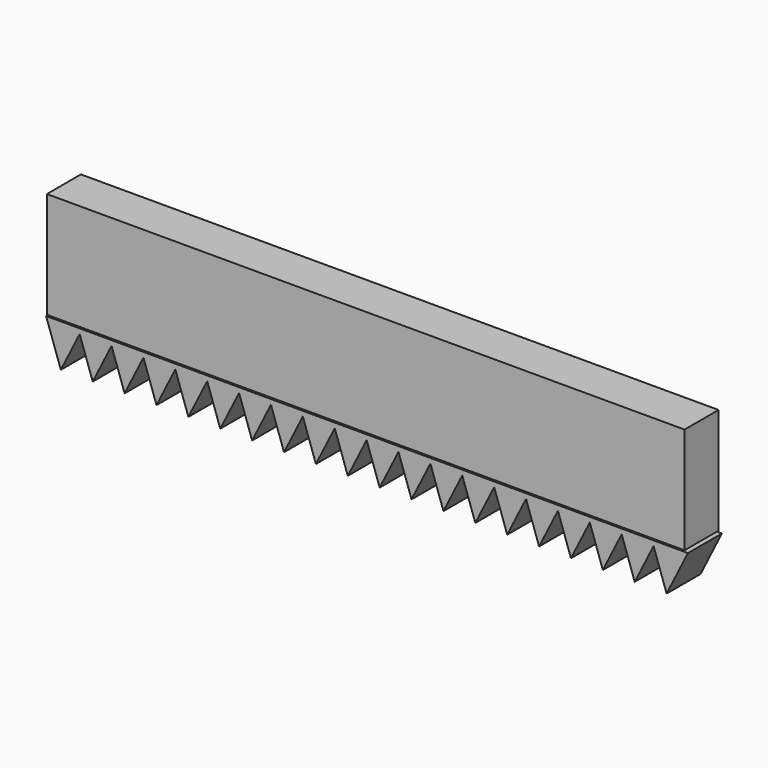
from build123d import *

# Parameters (mm, degrees)
F0_W     = 152.4
F0_H     = 25.4
F2_DEPTH = 10.16


with BuildPart() as f2:
    # F0 (on Front) + F1 (on Front) → F2 (new body)
    with BuildSketch(Plane.XZ):
        Rectangle(F0_W, F0_H)
    with BuildSketch(Plane.XZ):
        Polygon((-68.771168, -13.024884), (-76.391168, -13.024884), (-72.865635, -23.209754), (-68.362906, -14.204308), align=None)
        Polygon((-67.773193, -13.024884), (-68.771168, -13.024884), (-68.362906, -14.204308), align=None)
        Polygon((-61.151168, -13.024884), (-67.773193, -13.024884), (-68.362906, -14.204308), (-65.245635, -23.209754), (-60.742906, -14.204308), align=None)
        Polygon((-60.153193, -13.024884), (-61.151168, -13.024884), (-60.742906, -14.204308), align=None)
        Polygon((-53.531168, -13.024884), (-60.153193, -13.024884), (-60.742906, -14.204308), (-57.625635, -23.209754), (-53.122906, -14.204308), align=None)
        Polygon((-52.533193, -13.024884), (-53.531168, -13.024884), (-53.122906, -14.204308), align=None)
        Polygon((-45.911168, -13.024884), (-52.533193, -13.024884), (-53.122906, -14.204308), (-50.005635, -23.209754), (-45.502906, -14.204308), align=None)
        Polygon((-44.913193, -13.024884), (-45.911168, -13.024884), (-45.502906, -14.204308), align=None)
        Polygon((-38.291168, -13.024884), (-44.913193, -13.024884), (-45.502906, -14.204308), (-42.385635, -23.209754), (-37.882906, -14.204308), align=None)
        Polygon((-37.293193, -13.024884), (-38.291168, -13.024884), (-37.882906, -14.204308), align=None)
        Polygon((-30.671168, -13.024884), (-37.293193, -13.024884), (-37.882906, -14.204308), (-34.765635, -23.209754), (-30.262906, -14.204308), align=None)
        Polygon((-29.673193, -13.024884), (-30.671168, -13.024884), (-30.262906, -14.204308), align=None)
        Polygon((-23.051168, -13.024884), (-29.673193, -13.024884), (-30.262906, -14.204308), (-27.145635, -23.209754), (-22.642906, -14.204308), align=None)
        Polygon((-22.053193, -13.024884), (-23.051168, -13.024884), (-22.642906, -14.204308), align=None)
        Polygon((-15.431168, -13.024884), (-22.053193, -13.024884), (-22.642906, -14.204308), (-19.525635, -23.209754), (-15.022906, -14.204308), align=None)
        Polygon((-14.433193, -13.024884), (-15.431168, -13.024884), (-15.022906, -14.204308), align=None)
        Polygon((-7.811168, -13.024884), (-14.433193, -13.024884), (-15.022906, -14.204308), (-11.905635, -23.209754), (-7.402906, -14.204308), align=None)
        Polygon((-6.813193, -13.024884), (-7.811168, -13.024884), (-7.402906, -14.204308), align=None)
        Polygon((-0.191168, -13.024884), (-6.813193, -13.024884), (-7.402906, -14.204308), (-4.285635, -23.209754), (0.217094, -14.204308), align=None)
        Polygon((0.806807, -13.024884), (-0.191168, -13.024884), (0.217094, -14.204308), align=None)
        Polygon((7.428832, -13.024884), (0.806807, -13.024884), (0.217094, -14.204308), (3.334365, -23.209754), (7.837094, -14.204308), align=None)
        Polygon((8.426807, -13.024884), (7.428832, -13.024884), (7.837094, -14.204308), align=None)
        Polygon((15.048832, -13.024884), (8.426807, -13.024884), (7.837094, -14.204308), (10.954365, -23.209754), (15.457094, -14.204308), align=None)
        Polygon((16.046807, -13.024884), (15.048832, -13.024884), (15.457094, -14.204308), align=None)
        Polygon((22.668832, -13.024884), (16.046807, -13.024884), (15.457094, -14.204308), (18.574365, -23.209754), (23.077094, -14.204308), align=None)
        Polygon((23.666807, -13.024884), (22.668832, -13.024884), (23.077094, -14.204308), align=None)
        Polygon((30.288832, -13.024884), (23.666807, -13.024884), (23.077094, -14.204308), (26.194365, -23.209754), (30.697094, -14.204308), align=None)
        Polygon((31.286807, -13.024884), (30.288832, -13.024884), (30.697094, -14.204308), align=None)
        Polygon((37.908832, -13.024884), (31.286807, -13.024884), (30.697094, -14.204308), (33.814365, -23.209754), (38.317094, -14.204308), align=None)
        Polygon((38.906807, -13.024884), (37.908832, -13.024884), (38.317094, -14.204308), align=None)
        Polygon((45.528832, -13.024884), (38.906807, -13.024884), (38.317094, -14.204308), (41.434365, -23.209754), (45.937094, -14.204308), align=None)
        Polygon((46.526807, -13.024884), (45.528832, -13.024884), (45.937094, -14.204308), align=None)
        Polygon((53.148832, -13.024884), (46.526807, -13.024884), (45.937094, -14.204308), (49.054365, -23.209754), (53.557094, -14.204308), align=None)
        Polygon((54.146807, -13.024884), (53.148832, -13.024884), (53.557094, -14.204308), align=None)
        Polygon((60.768832, -13.024884), (54.146807, -13.024884), (53.557094, -14.204308), (56.674365, -23.209754), (61.177094, -14.204308), align=None)
        Polygon((61.766807, -13.024884), (60.768832, -13.024884), (61.177094, -14.204308), align=None)
        Polygon((68.388832, -13.024884), (61.766807, -13.024884), (61.177094, -14.204308), (64.294365, -23.209754), (68.797094, -14.204308), align=None)
        Polygon((69.386807, -13.024884), (68.388832, -13.024884), (68.797094, -14.204308), align=None)
        Polygon((77.006807, -13.024884), (69.386807, -13.024884), (68.797094, -14.204308), (71.914365, -23.209754), align=None)
    extrude(amount=F2_DEPTH)


solid = f2.part
